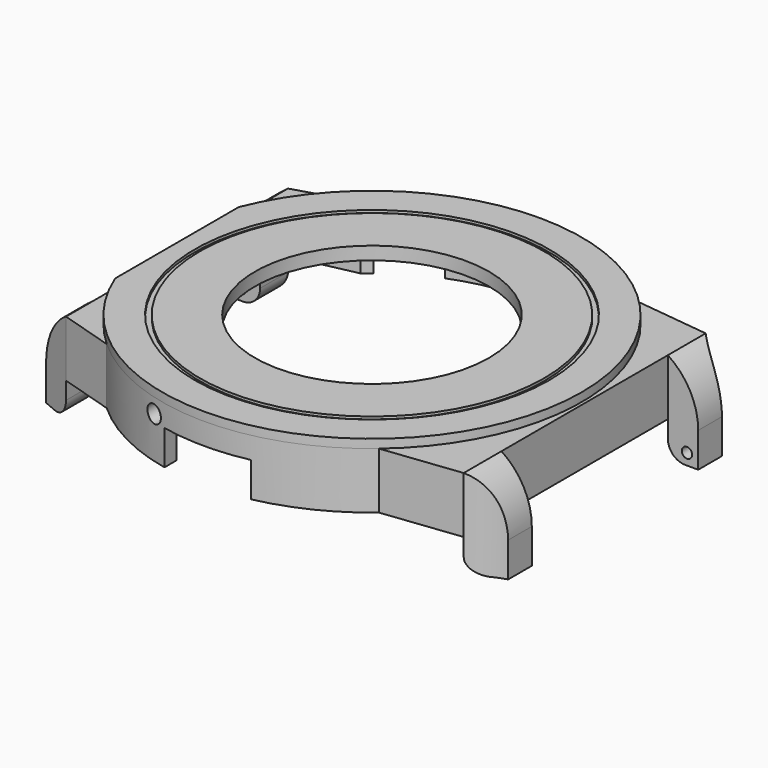
from build123d import *

# Parameters (mm, degrees)
PAD_DEPTH            = 6.5
POCKET_DEPTH         = 6
SKETCH002_R          = 13.5
POCKET001_DEPTH      = 1
SKETCH003_W          = 5.45
SKETCH003_H          = 6.5
PAD001_DEPTH         = 3.5
POCKET002_DEPTH      = 10
SKETCH010_W          = 4
SKETCH010_H          = 6.5
PAD002_DEPTH         = 3.5
POCKET005_DEPTH      = 10
SKETCH015_R          = 2.2
SKETCH015_R_2        = 1.025
PAD003_DEPTH         = 2
POCKET009_DEPTH      = 4
POCKET010_DEPTH      = 4
PAD004_DEPTH         = 4
POCKET013_DEPTH      = 12.201
POCKET013_DEPTH_BACK = 36.201
SKETCH022_R          = 0.6
POCKET014_DEPTH      = 2
SKETCH023_R          = 0.6
POCKET015_DEPTH      = 2
SKETCH024_R          = 13.5
PAD005_DEPTH         = 1
SKETCH025_R          = 20.45
SKETCH025_R_2        = 19.85
POCKET016_DEPTH      = 0.3
SKETCH026_R          = 1
POCKET017_DEPTH      = 5


with BuildPart() as part:
    # Sketch → Pad (new body)
    with BuildSketch(Plane.XY):
        with BuildLine():
            Line((-22.5019915649, 16), (-22.5019915649, -16))
            Line((-22.5019915649, -16), (-16.2858834578, -17.9))
            ThreePointArc((-16.2858834578, -17.9), (-0.4552796053, -24.1957169863), (15.6009615088, -18.5))
            Line((15.6009615088, -18.5), (24.5395016581, -17.45))
            Line((24.5395016581, 17.45), (24.5395016581, -17.45))
            Line((15.6009615088, 18.5), (24.5395016581, 17.45))
            ThreePointArc((15.6009615088, 18.5), (-0.4552796053, 24.1957169863), (-16.2858834578, 17.9))
            Line((-22.5019915649, 16), (-16.2858834578, 17.9))
        make_face()
    extrude(amount=PAD_DEPTH)

    # Sketch001 → Pocket (cut)
    with BuildSketch(Plane.XY):
        with BuildLine():
            Line((-14.8539557021, 16.9), (-21.2122180433, 15.55))
            Line((-21.2122180433, 15.55), (-21.2122180433, -15.55))
            Line((-21.2122180433, -15.55), (-14.8539557021, -16.9))
            ThreePointArc((-14.8539557021, -16.9), (-0.0760301383, -22.4998715423), (14.739402973, -17))
            Line((14.739402973, -17), (23.6191552218, -16.4))
            Line((23.6191552218, 16.4), (23.6191552218, -16.4))
            Line((14.739402973, 17), (23.6191552218, 16.4))
            ThreePointArc((14.739402973, 17), (-0.0760301383, 22.4998715423), (-14.8539557021, 16.9))
        make_face()
    extrude(amount=POCKET_DEPTH, mode=Mode.SUBTRACT)

    # Sketch002 (on Face19 of Pocket) → Pocket001 (cut)
    with BuildSketch(Plane(origin=(0, 0, 6), x_dir=(1, 0, 0), z_dir=(0, 0, -1))):
        Circle(SKETCH002_R)
    extrude(amount=-POCKET001_DEPTH, mode=Mode.SUBTRACT)

    # Sketch003 (on Face7 of Pad) → Pad001 (join)
    with BuildSketch(Plane.YZ.offset(24.5395016581)):
        with Locations((-14.725, 3.25)):
            Rectangle(SKETCH003_W, SKETCH003_H)
        with Locations((14.725, 3.25)):
            Rectangle(SKETCH003_W, SKETCH003_H)
    extrude(amount=PAD001_DEPTH)

    # Sketch006 (on Face22 of Pad001) → Pocket002 (cut)
    with BuildSketch(Plane.XY.offset(6.5)):
        with BuildLine():
            ThreePointArc((24.5395016581, 17.45), (26.1592830786, 16.2095505764), (28.0395016581, 15.4176006311))
            Line((28.0395016581, 17.45), (28.0395016581, 15.4176006311))
            Line((28.0395016581, 17.45), (24.5395016581, 17.45))
        make_face()
        with BuildLine():
            ThreePointArc((28.0395016581, -15.4176006311), (26.1592830786, -16.2095505765), (24.5395016581, -17.4500000001))
            Line((28.0395016581, -17.45), (24.5395016581, -17.4500000001))
            Line((28.0395016581, -15.4176006311), (28.0395016581, -17.45))
        make_face()
    extrude(amount=-POCKET002_DEPTH, mode=Mode.SUBTRACT)

    # Sketch010 (on Face3 of Pad) → Pad002 (join)
    with BuildSketch(Plane(origin=(-22.5019915649, 0, 0), x_dir=(0, -1, 0), z_dir=(-1, 0, 0))):
        with Locations((-14, 3.25)):
            Rectangle(SKETCH010_W, SKETCH010_H)
        with Locations((14, 3.25)):
            Rectangle(SKETCH010_W, SKETCH010_H)
    extrude(amount=PAD002_DEPTH)

    # Sketch011 (on Face28 of Pad002) → Pocket005 (cut)
    with BuildSketch(Plane.XY.offset(6.5)):
        Polygon((-26.0019915649, 16), (-22.5019915649, 16), (-26.0019915649, 14.5), align=None)
        Polygon((-22.5019915649, -16), (-26.0019915649, -14.5), (-26.0019915649, -16), align=None)
    extrude(amount=-POCKET005_DEPTH, mode=Mode.SUBTRACT)

    # Sketch015 (on Face19 of Pocket) → Pad003 (join)
    with BuildSketch(Plane(origin=(0, 0, 6), x_dir=(1, 0, 0), z_dir=(0, 0, -1))):
        with Locations((-18.42, 13.32)):
            Circle(SKETCH015_R)
        with Locations((-18.42, 13.32)):
            Circle(SKETCH015_R_2, mode=Mode.SUBTRACT)
        with Locations((7.27, 18.56)):
            Circle(SKETCH015_R)
        with Locations((7.27, 18.56)):
            Circle(SKETCH015_R_2, mode=Mode.SUBTRACT)
        with Locations((5.37, -19.79)):
            Circle(SKETCH015_R)
        with Locations((5.37, -19.79)):
            Circle(SKETCH015_R_2, mode=Mode.SUBTRACT)
        with Locations((-18.42, -13.32)):
            Circle(SKETCH015_R)
        with Locations((-18.42, -13.32)):
            Circle(SKETCH015_R_2, mode=Mode.SUBTRACT)
    extrude(amount=PAD003_DEPTH)

    # Sketch016 (on Face4 of Pocket) → Pocket009 (cut)
    with BuildSketch(Plane(origin=(0, 0, 0), x_dir=(1, 0, 0), z_dir=(0, 0, -1))):
        with BuildLine():
            Line((-4.9992330338, 23.6779996848), (-5.0007669662, 21.9372361465))
            ThreePointArc((5.0007669662, 21.9372361465), (0, 22.5), (-5.0007669662, 21.9372361465))
            Line((5.0007669662, 23.6776757675), (5.0007669662, 21.9372361465))
            ThreePointArc((5.0007669662, 23.6776757675), (0.00078388, 24.1999999873), (-4.9992330338, 23.6779996848))
        make_face()
    extrude(amount=-POCKET009_DEPTH, mode=Mode.SUBTRACT)

    # Sketch017 (on Face4 of Pocket) → Pocket010 (cut)
    with BuildSketch(Plane(origin=(0, 0, 0), x_dir=(1, 0, 0), z_dir=(0, 0, -1))):
        with BuildLine():
            ThreePointArc((-3.2541322314, -22.2634369184), (0, -22.5), (3.2541322314, -22.2634369184))
            Line((3.2541322314, -22.2634369184), (3.5, -23.9455632634))
            ThreePointArc((-3.5, -23.9455632634), (0, -24.2), (3.5, -23.9455632634))
            Line((-3.2541322314, -22.2634369184), (-3.5, -23.9455632634))
        make_face()
        with BuildLine():
            ThreePointArc((-13.9498796389, -17.6536358312), (-11.25, -19.4855715851), (-8.3135572795, -20.9077680626))
            Line((-8.3135572795, -20.9077680626), (-8.9416927184, -22.487466094))
            ThreePointArc((-15.0038705449, -18.987466094), (-12.1, -20.9578147716), (-8.9416927184, -22.487466094))
            Line((-13.9498796389, -17.6536358312), (-15.0038705449, -18.987466094))
        make_face()
        with BuildLine():
            ThreePointArc((8.3135572795, -20.9077680626), (11.25, -19.4855715851), (13.9498796389, -17.6536358312))
            Line((13.9498796389, -17.6536358312), (15.0038705449, -18.987466094))
            ThreePointArc((8.9416927184, -22.487466094), (12.1, -20.9578147716), (15.0038705449, -18.987466094))
            Line((8.3135572795, -20.9077680626), (8.9416927184, -22.487466094))
        make_face()
    extrude(amount=-POCKET010_DEPTH, mode=Mode.SUBTRACT)

    # Sketch018 (on Face8 of Pocket005) → Pad004 (join)
    with BuildSketch(Plane(origin=(0, 0, 0), x_dir=(1, 0, 0), z_dir=(0, 0, -1))):
        Polygon((-26.0019915649, 14.5), (-26.0019915649, 12), (-22.5019915649, 12), (-22.5019915649, 16), align=None)
        Polygon((-26.0019915649, -12), (-22.5019915649, -12), (-22.5019915649, -16), (-26.0019915649, -14.5), align=None)
        with BuildLine():
            Line((24.5395016581, 17.4500000001), (24.5395016581, 12))
            Line((28.0395016581, 12), (24.5395016581, 12))
            Line((28.0395016581, 15.4176006311), (28.0395016581, 12))
            ThreePointArc((24.5395016581, 17.4500000001), (26.1592830786, 16.2095505765), (28.0395016581, 15.4176006311))
        make_face()
        with BuildLine():
            Line((24.5395016581, -12), (24.5395016581, -17.45))
            ThreePointArc((28.0395016581, -15.4176006311), (26.1592830786, -16.2095505764), (24.5395016581, -17.45))
            Line((28.0395016581, -12), (28.0395016581, -15.4176006311))
            Line((24.5395016581, -12), (28.0395016581, -12))
        make_face()
    extrude(amount=PAD004_DEPTH)

    # Sketch021 (on Face50 of Pad004) → Pocket013 (cut, two sides)
    with BuildSketch(Plane(origin=(0, -12, 0), x_dir=(-1, 0, 0), z_dir=(0, 1, 0))) as pocket013_sk:
        with BuildLine():
            Line((-24.5395016581, -4), (-24.5395016581, -2))
            ThreePointArc((-26.5395016581, -4), (-25.1252880957, -3.4142135624), (-24.5395016581, -2))
            Line((-24.5395016581, -4), (-26.5395016581, -4))
        make_face()
        with BuildLine():
            Line((22.5019915649, -4), (22.5019915649, -2))
            ThreePointArc((22.5019915649, -2), (23.0877780026, -3.4142135624), (24.5019915649, -4))
            Line((22.5019915649, -4), (24.5019915649, -4))
        make_face()
        with BuildLine():
            Line((-28.0395016581, 0), (-28.0395016581, 6.5))
            Line((-28.0395016581, 6.5), (-24.5395016581, 6.5))
            ThreePointArc((-24.5395016581, 6.5), (-27.1088837932, 3.6912057651), (-28.0395016581, 0))
        make_face()
        with BuildLine():
            Line((26.0019915649, 6.5), (26.0019915649, 0))
            ThreePointArc((26.0019915649, 0), (25.0713737, 3.6912057651), (22.5019915649, 6.5))
            Line((26.0019915649, 6.5), (22.5019915649, 6.5))
        make_face()
    extrude(amount=-POCKET013_DEPTH, mode=Mode.SUBTRACT)
    extrude(pocket013_sk.sketch, amount=POCKET013_DEPTH_BACK, mode=Mode.SUBTRACT)

    # Sketch022 (on Face66 of Pocket013) → Pocket014 (cut)
    with BuildSketch(Plane.XZ.offset(-12)):
        with Locations((-24.7019915649, -2.7)):
            Circle(SKETCH022_R)
        with Locations((26.7395016581, -2.7)):
            Circle(SKETCH022_R)
    extrude(amount=-POCKET014_DEPTH, mode=Mode.SUBTRACT)

    # Sketch023 (on Face49 of Pocket014) → Pocket015 (cut)
    with BuildSketch(Plane(origin=(0, -12, 0), x_dir=(-1, 0, 0), z_dir=(0, 1, 0))):
        with Locations((-26.7395016581, -2.7)):
            Circle(SKETCH023_R)
        with Locations((24.7019915649, -2.7)):
            Circle(SKETCH023_R)
    extrude(amount=-POCKET015_DEPTH, mode=Mode.SUBTRACT)

    # Sketch024 (on Face16 of Pocket015) → Pad005 (join)
    with BuildSketch(Plane.XY.offset(6.5)):
        with BuildLine():
            ThreePointArc((-22.5019915649, -8.9050758341), (24.2, 0), (-22.5019915649, 8.9050758341))
            Line((-22.5019915649, 8.9050758341), (-22.5019915649, -8.9050758341))
        make_face()
        Circle(SKETCH024_R, mode=Mode.SUBTRACT)
    extrude(amount=PAD005_DEPTH)

    # Sketch025 (on Face42 of Pad005) → Pocket016 (cut)
    with BuildSketch(Plane.XY.offset(7.5)):
        Circle(SKETCH025_R)
        Circle(SKETCH025_R_2, mode=Mode.SUBTRACT)
    extrude(amount=-POCKET016_DEPTH, mode=Mode.SUBTRACT)

    # Sketch026 (on DatumPlane) → Pocket017 (cut)
    with BuildSketch(Plane.XZ.offset(25)):
        with Locations((-6.5, 4.8)):
            Circle(SKETCH026_R)
    extrude(amount=-POCKET017_DEPTH, mode=Mode.SUBTRACT)


solid = part.part
